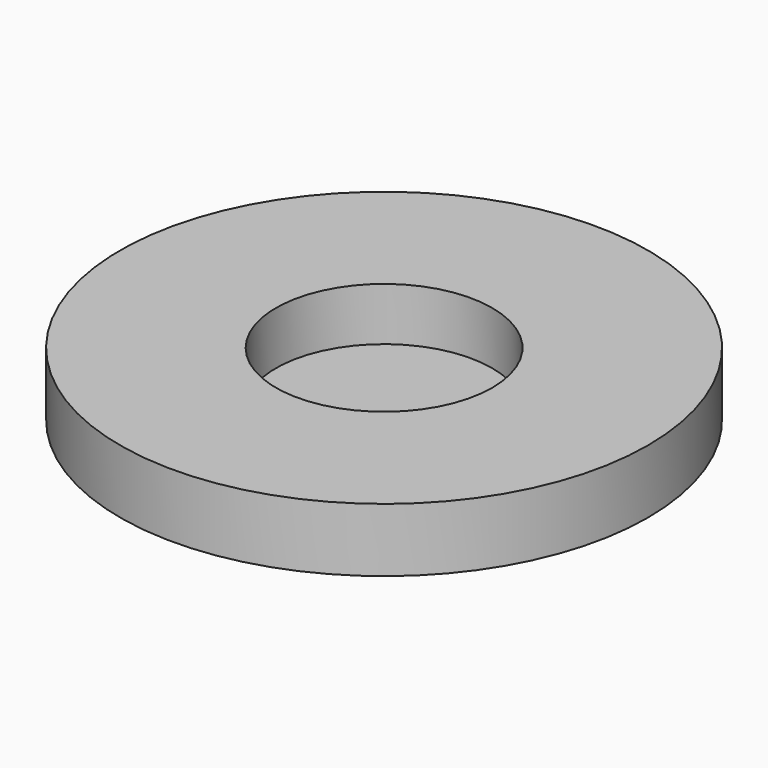
from build123d import *

# Parameters (mm, degrees)
SKETCH_R     = 12.45
PAD_DEPTH    = 3
SKETCH001_R  = 5.1
POCKET_DEPTH = 2.5


with BuildPart() as part:
    # Sketch → Pad (new body)
    with BuildSketch(Plane.XY):
        Circle(SKETCH_R)
    extrude(amount=PAD_DEPTH)

    # Sketch001 (on Face3 of Pad) → Pocket (cut)
    with BuildSketch(Plane.XY.offset(3)):
        Circle(SKETCH001_R)
    extrude(amount=-POCKET_DEPTH, mode=Mode.SUBTRACT)


solid = part.part
